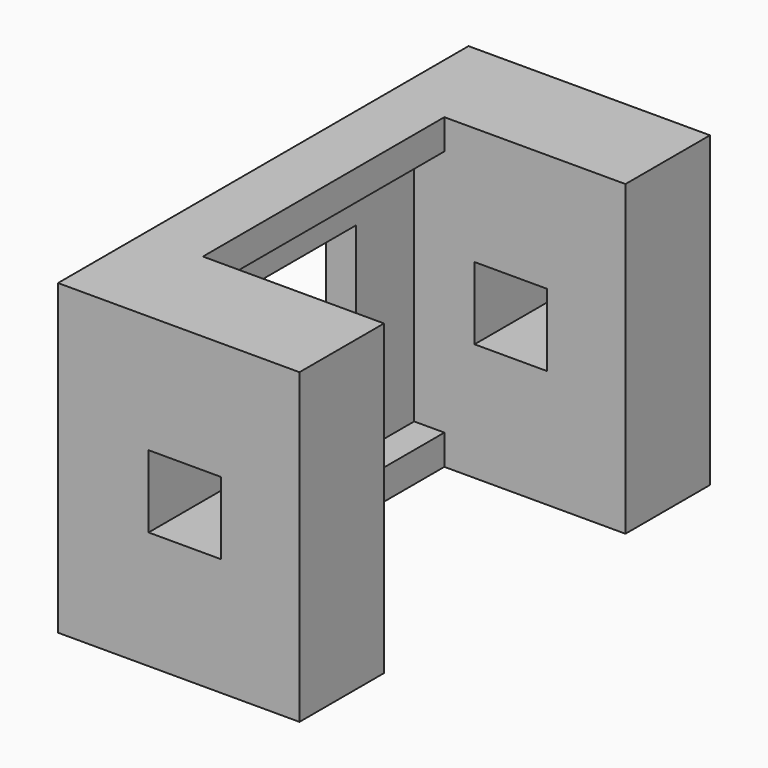
from build123d import *

# Parameters (mm, degrees)
SKETCH049_W      = 1
SKETCH049_H      = 1
EXTRUDE052_DEPTH = 8.5
SKETCH048_W      = 2.4
SKETCH048_H      = 2.4
EXTRUDE051_DEPTH = 8.5
SKETCH046_W      = 5.2
SKETCH046_H      = 5.2
EXTRUDE049_DEPTH = 1
SKETCH047_W      = 10
SKETCH047_H      = 10.2
EXTRUDE050_DEPTH = 8
SKETCH045_W      = 8
SKETCH045_H      = 10.2
EXTRUDE048_DEPTH = 8.5


with BuildPart() as extrude052:
    # Sketch049 → Extrude052 (new body, symmetric)
    with BuildSketch(Plane.XZ):
        with Locations((1.5, -4.6)):
            Rectangle(SKETCH049_W, SKETCH049_H)
        with Locations((1.5, 4.6)):
            Rectangle(SKETCH049_W, SKETCH049_H)
    extrude(amount=EXTRUDE052_DEPTH, both=True)


with BuildPart() as obj1:
    # Sketch048 → Extrude051 (new body, symmetric)
    with BuildSketch(Plane.XZ):
        with Locations((4.2, 0)):
            Rectangle(SKETCH048_W, SKETCH048_H)
    extrude(amount=EXTRUDE051_DEPTH, both=True)


with BuildPart() as obj2:
    # Sketch046 → Extrude049 (new body)
    with BuildSketch(Plane.YZ):
        Rectangle(SKETCH046_W, SKETCH046_H)
    extrude(amount=EXTRUDE049_DEPTH)


with BuildPart() as obj3:
    # Sketch047 → Extrude050 (new body)
    with BuildSketch(Plane.YZ):
        Rectangle(SKETCH047_W, SKETCH047_H)
    extrude(amount=EXTRUDE050_DEPTH)


with BuildPart() as obj3_1:
    # Extrude050 placement: moved
    add(obj3.part.moved(Location((1, 0, 0))))


with BuildPart() as obj4:
    # Sketch045 → Extrude048 (new body, symmetric)
    with BuildSketch(Plane.XZ):
        with Locations((4, 0)):
            Rectangle(SKETCH045_W, SKETCH045_H)
    extrude(amount=EXTRUDE048_DEPTH, both=True)

    # Cut030: cut obj3
    add(obj3_1.part, mode=Mode.SUBTRACT)

    # Cut031: cut obj2
    add(obj2.part, mode=Mode.SUBTRACT)

    # Cut032: cut obj1
    add(obj1.part, mode=Mode.SUBTRACT)

    # Fusion001: union Extrude052
    add(extrude052.part)


solid = obj4.part
